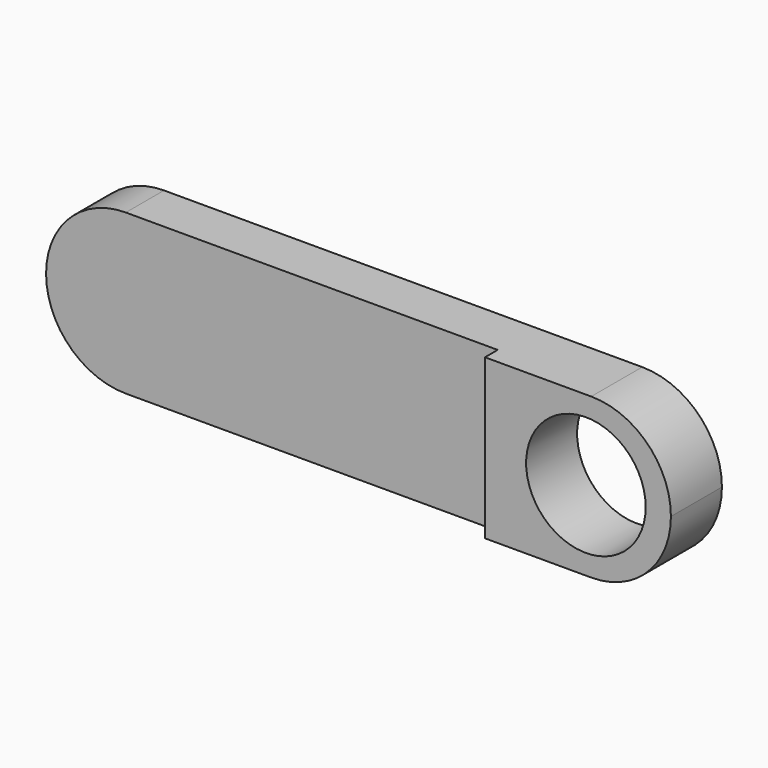
from build123d import *

# Parameters (mm, degrees)
F0_R     = 11.25
F1_DEPTH = 12
F2_DEPTH = 9


with BuildPart() as f1:
    # F0 (on Front) → F1 (new body)
    with BuildSketch(Plane.XZ):
        with BuildLine():
            Line((25, -15), (45, -15))
            ThreePointArc((45, -15), (55.606602, -10.606602), (60, 0))
            ThreePointArc((60, 0), (55.606602, 10.606602), (45, 15))
            Line((45, 15), (25, 15))
            Line((25, 15), (25, -15))
        make_face()
        with Locations((44, 0)):
            Circle(F0_R, mode=Mode.SUBTRACT)
    extrude(amount=F1_DEPTH)

    # F0 (on Front) → F2 (join)
    with BuildSketch(Plane.XZ):
        with BuildLine():
            Line((-45, -15), (25, -15))
            Line((25, -15), (25, 15))
            Line((25, 15), (-45, 15))
            ThreePointArc((-45, 15), (-55.606602, 10.606602), (-60, 0))
            ThreePointArc((-60, 0), (-55.606602, -10.606602), (-45, -15))
        make_face()
    extrude(amount=F2_DEPTH)


solid = f1.part
